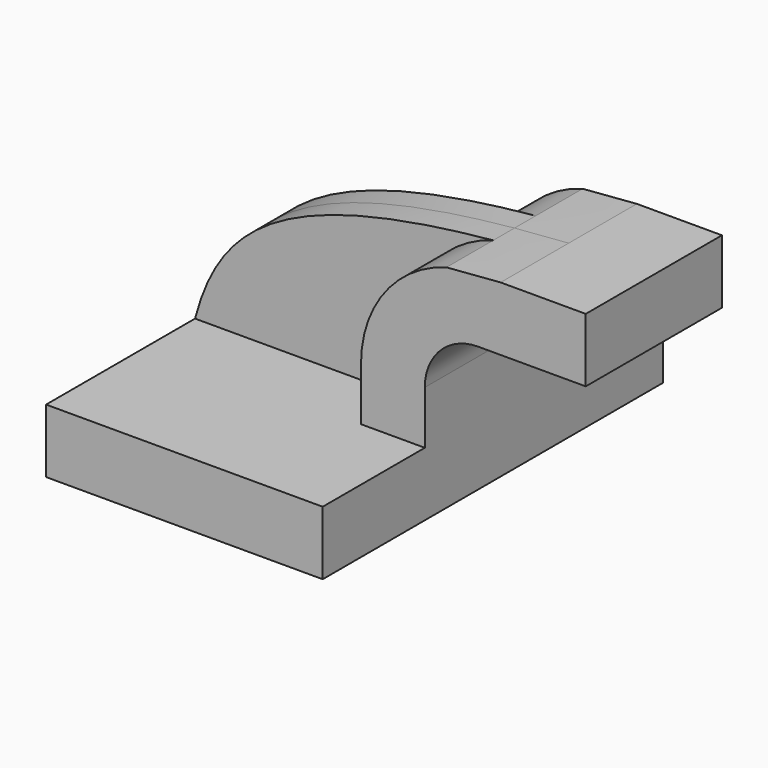
from build123d import *

# Parameters (mm, degrees)
F1_DEPTH = 63.5
F2_DEPTH = 25.4
F3_DEPTH = 7.9375
F4_DEPTH = 25.4


with BuildPart() as f1:
    # F0 (on Front) → F1 (new body, symmetric)
    with BuildSketch(Plane.XZ):
        Polygon((41.275, -9.525), (41.275, 9.525), (22.225, 9.525), (-41.275, 9.525), (-41.275, -9.525), align=None)
    extrude(amount=F1_DEPTH, both=True)

    # F0 (on Front) → F2 (join, symmetric)
    with BuildSketch(Plane.XZ):
        with BuildLine():
            Line((22.225, 9.525), (41.275, 9.525))
            Line((41.275, 9.525), (41.275, 25.4))
            ThreePointArc((41.275, 25.4), (45.92468, 36.62532), (57.15, 41.275))
            Line((57.15, 41.275), (63.898031, 41.275))
            Line((63.898031, 41.275), (63.898031, 60.325))
            add(Edge.make_bspline(
                [(47.724872, 59.029193), (52.819319, 59.523847), (58.204508, 59.955469), (63.898031, 60.325)],
                knots=[108.105541, 108.105541, 108.105541, 108.105541, 116.799, 116.799, 116.799, 116.799], degree=3))
            ThreePointArc((47.724872, 59.029193), (29.320805, 46.501932), (22.225, 25.4))
            Line((22.225, 25.4), (22.225, 9.525))
        make_face()
    extrude(amount=F2_DEPTH, both=True)

    # F0 (on Front) → F3 (join, symmetric)
    with BuildSketch(Plane.XZ):
        with BuildLine():
            Line((-41.275, 9.525), (22.225, 9.525))
            Line((22.225, 9.525), (22.225, 25.4))
            ThreePointArc((22.225, 25.4), (29.320805, 46.501932), (47.724872, 59.029193))
            add(Edge.make_bspline(
                [(-41.275, 9.525), (-34.017475, 36.97978), (-15.625963, 52.878028), (47.724872, 59.029193)],
                knots=[0, 0, 0, 0, 108.105541, 108.105541, 108.105541, 108.105541], degree=3))
        make_face()
    extrude(amount=F3_DEPTH, both=True)

    # F2_face (on face) → F4 (join)
    with BuildSketch(Plane(origin=(63.898031, 0, 50.8), x_dir=(0, 1, 0), z_dir=(1, 0, 0))):
        Polygon((25.4, -9.525), (25.4, 9.525), (0, 9.525), (-25.4, 9.525), (-25.4, -9.525), align=None)
    extrude(amount=F4_DEPTH)


solid = f1.part
